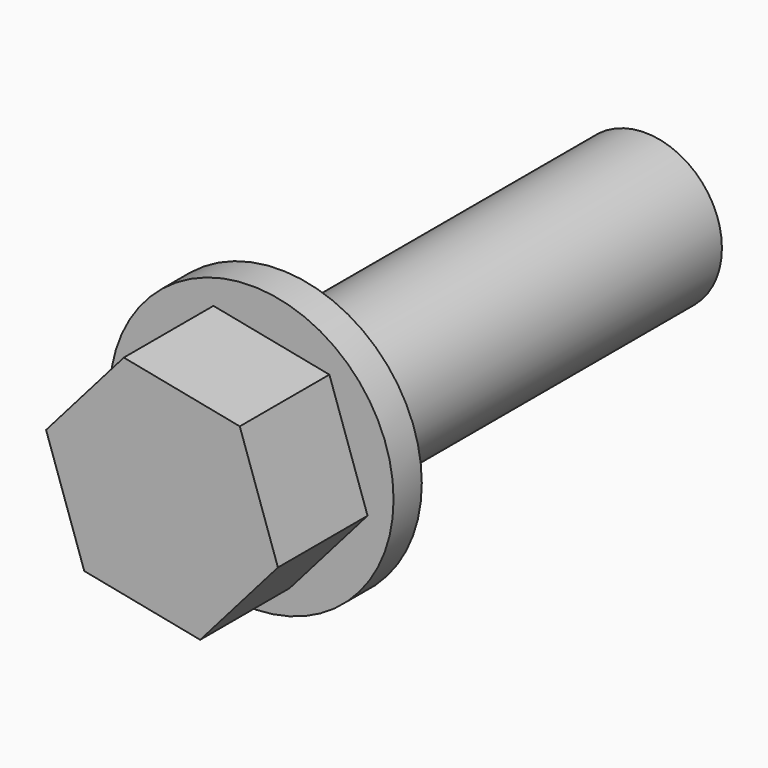
from build123d import *

# Parameters (mm, degrees)
F0_R     = 5
F1_DEPTH = 29.76
F3_R     = 9.25
F4_DEPTH = 2.3
F7_DEPTH = 7.3


with BuildPart() as f1:
    # F0 (on Front) → F1 (new body)
    with BuildSketch(Plane.XZ):
        Circle(F0_R)
    extrude(amount=F1_DEPTH)

    # F3 (on offset) → F4 (join)
    with BuildSketch(Plane.XZ.offset(29.76)):
        Circle(F3_R)
    extrude(amount=F4_DEPTH)

    # F6 (on offset) → F7 (join)
    with BuildSketch(Plane.XZ.offset(32.06)):
        Polygon((7.55453, -1.489656), (5.067345, 5.797587), (-2.487185, 7.287243), (-7.55453, 1.489656), (-5.067345, -5.797587), (2.487185, -7.287243), align=None)
    extrude(amount=F7_DEPTH)


solid = f1.part
